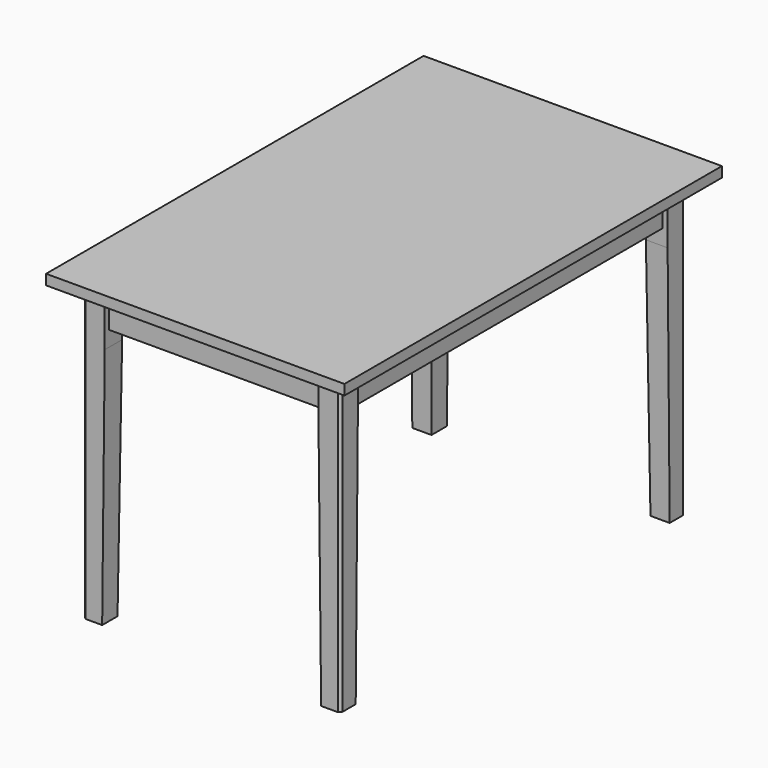
from build123d import *

# Parameters (mm, degrees)
F0_W     = 739.775
F0_H     = 1169.9875
F1_DEPTH = 25.4
F2_W     = 53.975
F2_H     = 53.975
F3_DEPTH = 730.25
F4_W     = 1.190625
F4_H     = 14.684375
F5_DEPTH = 88.9
F6_SIZE2 = 603.25
F6_SIZE  = 6.35
F7_SIZE2 = 603.25
F7_SIZE  = 6.35
F8_SIZE2 = 603.25
F8_SIZE  = 6.35
F9_SIZE2 = 603.25
F9_SIZE  = 6.35
F10_SIZE = 6.35
F11_SIZE = 6.35
F12_SIZE = 6.35
F13_SIZE = 6.35


with BuildPart() as f1:
    # F0 (on Top) → F1 (new body)
    with BuildSketch(Plane.XY):
        Rectangle(F0_W, F0_H)
    extrude(amount=F1_DEPTH)


with BuildPart() as f3:
    # F2 (on face) → F3 (new body)
    with BuildSketch(Plane(origin=(0, 0, 0), x_dir=(1, 0, 0), z_dir=(0, 0, -1))):
        with Locations((-292.1, -507.20625)):
            Rectangle(F2_W, F2_H)
    extrude(amount=F3_DEPTH)

    # F6
    f6_edges = [f3.edges().sort_by_distance(p)[0] for p in [
        (-265.1125, 507.20625, -730.25),
        (-292.1, 480.21875, -730.25),
    ]]
    f6_side = f3.faces().sort_by_distance((-292.1, 507.20625, -730.25))[0]
    chamfer(f6_edges, length=F6_SIZE, length2=F6_SIZE2, reference=f6_side)

    # F12
    f12_edges = [f3.edges().sort_by_distance(p)[0] for p in [
        (-319.0875, 534.19375, -365.125),
    ]]
    chamfer(f12_edges, length=F12_SIZE)


with BuildPart() as f3b:
    # F2 (on face) → F3, piece 2 (new body)
    with BuildSketch(Plane(origin=(0, 0, 0), x_dir=(1, 0, 0), z_dir=(0, 0, -1))):
        with Locations((292.1, -507.20625)):
            Rectangle(F2_W, F2_H)
    extrude(amount=F3_DEPTH)

    # F7
    f7_edges = [f3b.edges().sort_by_distance(p)[0] for p in [
        (265.1125, 507.20625, -730.25),
        (292.1, 480.21875, -730.25),
    ]]
    f7_side = f3b.faces().sort_by_distance((292.1, 507.20625, -730.25))[0]
    chamfer(f7_edges, length=F7_SIZE, length2=F7_SIZE2, reference=f7_side)

    # F13
    f13_edges = [f3b.edges().sort_by_distance(p)[0] for p in [
        (319.0875, 534.19375, -365.125),
    ]]
    chamfer(f13_edges, length=F13_SIZE)


with BuildPart() as f3c:
    # F2 (on face) → F3, piece 3 (new body)
    with BuildSketch(Plane(origin=(0, 0, 0), x_dir=(1, 0, 0), z_dir=(0, 0, -1))):
        with Locations((-292.1, 507.20625)):
            Rectangle(F2_W, F2_H)
    extrude(amount=F3_DEPTH)

    # F9
    f9_edges = [f3c.edges().sort_by_distance(p)[0] for p in [
        (-265.1125, -507.20625, -730.25),
        (-292.1, -480.21875, -730.25),
    ]]
    f9_side = f3c.faces().sort_by_distance((-292.1, -507.20625, -730.25))[0]
    chamfer(f9_edges, length=F9_SIZE, length2=F9_SIZE2, reference=f9_side)

    # F10
    f10_edges = [f3c.edges().sort_by_distance(p)[0] for p in [
        (-319.0875, -534.19375, -365.125),
    ]]
    chamfer(f10_edges, length=F10_SIZE)


with BuildPart() as f3d:
    # F2 (on face) → F3, piece 4 (new body)
    with BuildSketch(Plane(origin=(0, 0, 0), x_dir=(1, 0, 0), z_dir=(0, 0, -1))):
        with Locations((292.1, 507.20625)):
            Rectangle(F2_W, F2_H)
    extrude(amount=F3_DEPTH)

    # F8
    f8_edges = [f3d.edges().sort_by_distance(p)[0] for p in [
        (292.1, -480.21875, -730.25),
        (265.1125, -507.20625, -730.25),
    ]]
    f8_side = f3d.faces().sort_by_distance((292.1, -507.20625, -730.25))[0]
    chamfer(f8_edges, length=F8_SIZE, length2=F8_SIZE2, reference=f8_side)

    # F11
    f11_edges = [f3d.edges().sort_by_distance(p)[0] for p in [
        (319.0875, -534.19375, -365.125),
    ]]
    chamfer(f11_edges, length=F11_SIZE)


with BuildPart() as f5:
    # F4 (on face) → F5 (new body)
    with BuildSketch(Plane(origin=(0, 0, 0), x_dir=(1, 0, 0), z_dir=(0, 0, -1))):
        Polygon((-279.4, -508), (-279.4, -493.315625), (-278.209375, -493.315625), (-278.209375, 493.315625), (-279.4, 493.315625), (-279.4, 508), (-305.990625, 508), (-305.990625, -508), align=None)
        with Locations((-278.8046875, -500.6578125)):
            Rectangle(F4_W, F4_H)
        Polygon((278.209375, -493.315625), (-278.209375, -493.315625), (-278.209375, -508), (-279.4, -508), (-279.4, -521.096875), (279.4, -521.096875), (279.4, -508), (278.209375, -508), align=None)
        Polygon((278.209375, 493.315625), (278.209375, -493.315625), (279.4, -493.315625), (279.4, -508), (305.990625, -508), (305.990625, 508), (279.4, 508), (279.4, 493.315625), align=None)
        with Locations((278.8046875, -500.6578125)):
            Rectangle(F4_W, F4_H)
        with Locations((-278.8046875, 500.6578125)):
            Rectangle(F4_W, F4_H)
        Polygon((-278.209375, 508), (-278.209375, 493.315625), (278.209375, 493.315625), (278.209375, 508), (279.4, 508), (279.4, 521.096875), (-279.4, 521.096875), (-279.4, 508), align=None)
        with Locations((278.8046875, 500.6578125)):
            Rectangle(F4_W, F4_H)
    extrude(amount=F5_DEPTH)


solid = Compound([f1.part, f3.part, f3b.part, f3c.part, f3d.part, f5.part])
